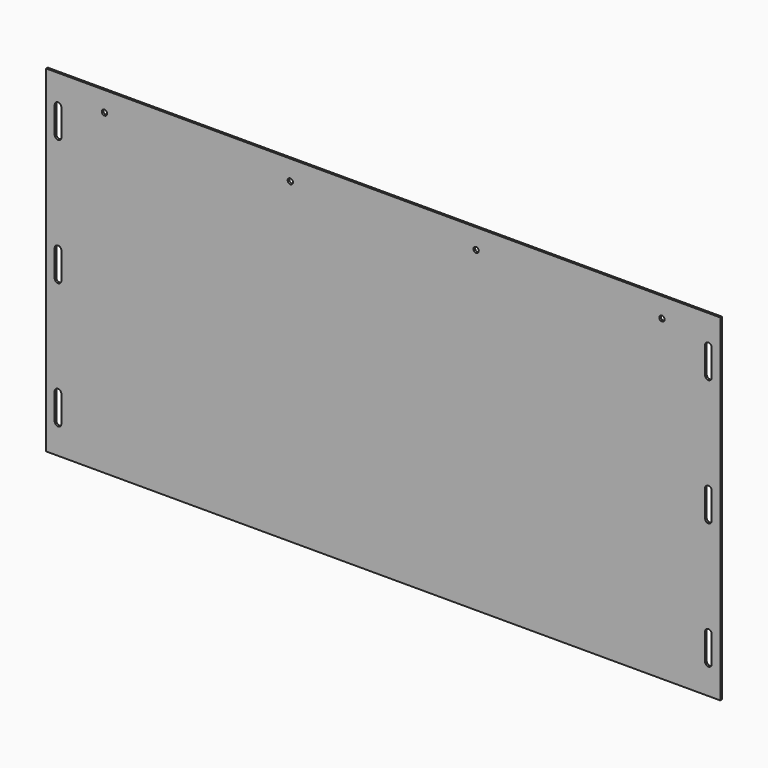
from build123d import *

# Parameters (mm, degrees)
F0_W     = 1016
F0_H     = 508
F0_R     = 4
F1_DEPTH = 3


with BuildPart() as f1:
    # F0 (on Front) → F1 (new body)
    with BuildSketch(Plane.XZ):
        with Locations((508, 254)):
            Rectangle(F0_W, F0_H)
        with BuildLine():
            ThreePointArc((13, 84), (18, 89), (23, 84))
            Line((23, 84), (23, 44))
            ThreePointArc((23, 44), (18, 39), (13, 44))
            Line((13, 44), (13, 84))
        make_face(mode=Mode.SUBTRACT)
        with BuildLine():
            ThreePointArc((1003, 44), (998, 39), (993, 44))
            Line((993, 44), (993, 84))
            ThreePointArc((993, 84), (998, 89), (1003, 84))
            Line((1003, 84), (1003, 44))
        make_face(mode=Mode.SUBTRACT)
        with BuildLine():
            ThreePointArc((13, 274), (18, 279), (23, 274))
            Line((23, 274), (23, 234))
            ThreePointArc((23, 234), (18, 229), (13, 234))
            Line((13, 234), (13, 274))
        make_face(mode=Mode.SUBTRACT)
        with BuildLine():
            ThreePointArc((13, 464), (18, 469), (23, 464))
            Line((23, 464), (23, 424))
            ThreePointArc((23, 424), (18, 419), (13, 424))
            Line((13, 424), (13, 464))
        make_face(mode=Mode.SUBTRACT)
        with Locations((88, 478)):
            Circle(F0_R, mode=Mode.SUBTRACT)
        with Locations((368, 478)):
            Circle(F0_R, mode=Mode.SUBTRACT)
        with BuildLine():
            ThreePointArc((993, 274), (998, 279), (1003, 274))
            Line((1003, 274), (1003, 234))
            ThreePointArc((1003, 234), (998, 229), (993, 234))
            Line((993, 234), (993, 274))
        make_face(mode=Mode.SUBTRACT)
        with Locations((648, 478)):
            Circle(F0_R, mode=Mode.SUBTRACT)
        with BuildLine():
            ThreePointArc((993, 464), (998, 469), (1003, 464))
            Line((1003, 464), (1003, 424))
            ThreePointArc((1003, 424), (998, 419), (993, 424))
            Line((993, 424), (993, 464))
        make_face(mode=Mode.SUBTRACT)
        with Locations((928, 478)):
            Circle(F0_R, mode=Mode.SUBTRACT)
    extrude(amount=F1_DEPTH)


solid = f1.part
